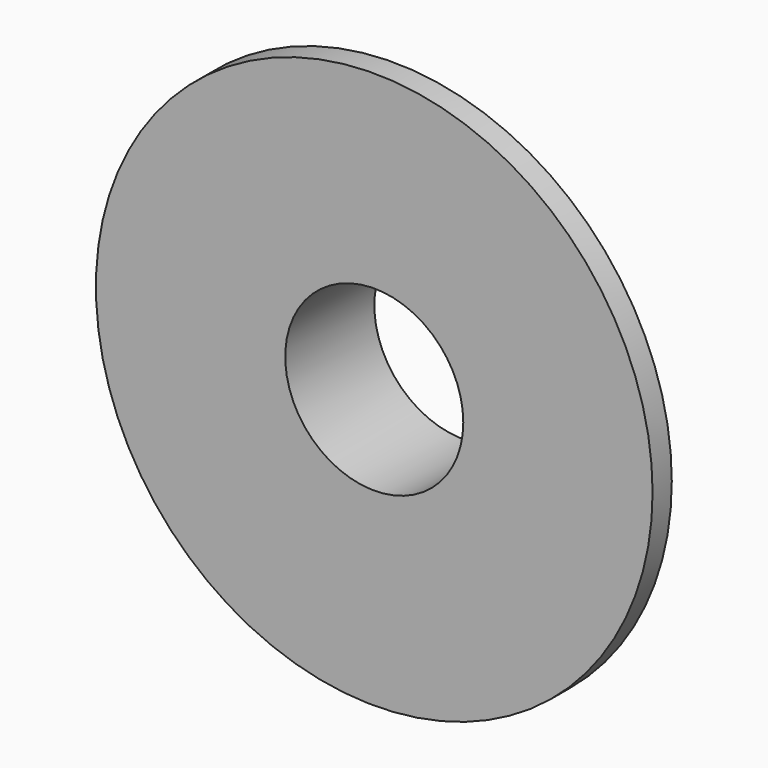
from build123d import *


with BuildPart() as part:
    # Sketch → Revolution (revolve)
    with BuildSketch(Plane.XY):
        Polygon((3.997154, 0), (12.497154, 0), (12.497154, 1.078942), (5.498259, 5), (3.997154, 5), align=None)
    revolve(axis=Axis((0, 0, 0), (0, 1, 0)))


solid = part.part
